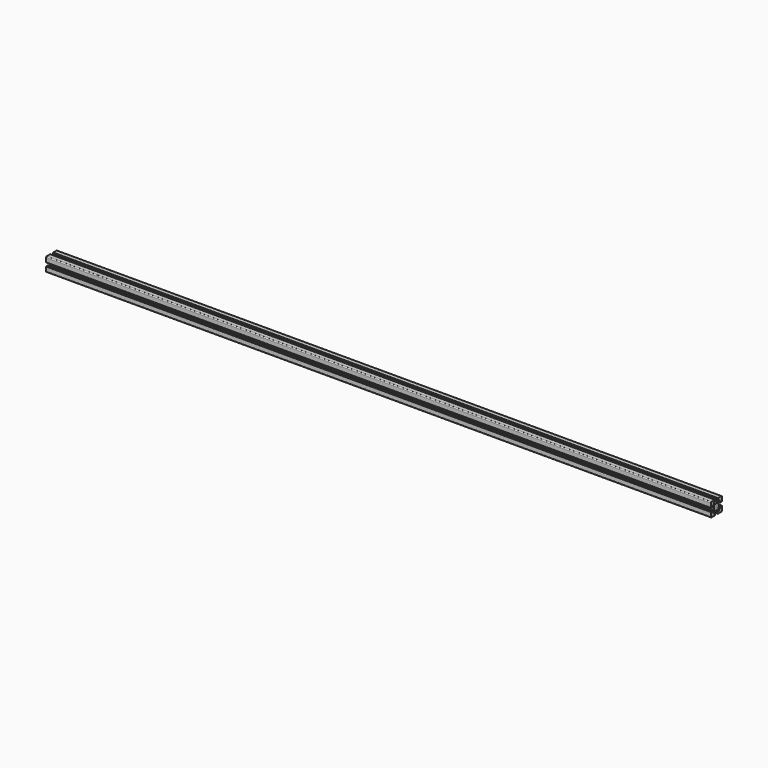
from build123d import *

# Parameters (mm, degrees)
F1_DEPTH = 2159


with BuildPart() as f1:
    # F0 (on Right) → F1 (new body)
    with BuildSketch(Plane.YZ):
        with BuildLine():
            Line((-20.088481, -9.788837), (-20.088481, -10.288837))
            Line((-20.088481, -10.288837), (-21.28859, -10.288837))
            ThreePointArc((-21.28859, -10.288837), (-21.500722, -10.376705), (-21.58859, -10.588837))
            Line((-21.58859, -10.588837), (-21.58859, -23.988949))
            ThreePointArc((-21.58859, -23.988949), (-20.70991, -26.11027), (-18.58859, -26.988949))
            Line((-18.58859, -26.988949), (-5.188544, -26.988949))
            ThreePointArc((-5.188544, -26.988949), (-4.976411, -26.901081), (-4.888544, -26.688949))
            Line((-4.888544, -26.688949), (-4.888544, -25.488841))
            Line((-4.888544, -25.488841), (-4.388544, -25.488841))
            ThreePointArc((-4.388544, -25.488841), (-4.176411, -25.400973), (-4.088544, -25.188841))
            Line((-4.088544, -25.188841), (-4.088544, -21.288841))
            ThreePointArc((-4.088544, -21.288841), (-4.176411, -21.076709), (-4.388544, -20.988841))
            Line((-4.388544, -20.988841), (-9.138663, -20.988841))
            Line((-9.138663, -20.988841), (-9.138663, -16.881665))
            Line((-9.138663, -16.881665), (-6.245729, -13.988731))
            Line((-6.245729, -13.988731), (-2.211433, -13.988731))
            ThreePointArc((-2.211433, -13.988731), (-0.669869, -14.363044), (0.91149, -14.48887))
            Line((0.91149, -14.48887), (0.91149, -4.48887))
            Line((0.91149, -4.48887), (-9.08851, -4.48887))
            ThreePointArc((-9.08851, -4.48887), (-8.962684, -6.070229), (-8.588371, -7.611793))
            Line((-8.588371, -7.611793), (-8.588371, -11.646022))
            Line((-8.588371, -11.646022), (-11.481305, -14.538956))
            Line((-11.481305, -14.538956), (-15.588481, -14.538956))
            Line((-15.588481, -14.538956), (-15.588481, -9.788837))
            ThreePointArc((-15.588481, -9.788837), (-15.676349, -9.576705), (-15.888481, -9.488837))
            Line((-15.888481, -9.488837), (-19.788481, -9.488837))
            ThreePointArc((-19.788481, -9.488837), (-20.000613, -9.576705), (-20.088481, -9.788837))
        make_face()
        with BuildLine():
            ThreePointArc((-8.588371, -1.365947), (-8.962684, -2.907511), (-9.08851, -4.48887))
            Line((-9.08851, -4.48887), (0.91149, -4.48887))
            Line((0.91149, -4.48887), (0.91149, 5.51113))
            ThreePointArc((0.91149, 5.51113), (-0.669869, 5.385303), (-2.211433, 5.010991))
            Line((-2.211433, 5.010991), (-6.245729, 5.010991))
            Line((-6.245729, 5.010991), (-9.138663, 7.903925))
            Line((-9.138663, 7.903925), (-9.138663, 12.011101))
            Line((-9.138663, 12.011101), (-4.388544, 12.011101))
            ThreePointArc((-4.388544, 12.011101), (-4.176411, 12.098969), (-4.088544, 12.311101))
            Line((-4.088544, 12.311101), (-4.088544, 16.211101))
            ThreePointArc((-4.088544, 16.211101), (-4.176411, 16.423233), (-4.388544, 16.511101))
            Line((-4.388544, 16.511101), (-4.888544, 16.511101))
            Line((-4.888544, 16.511101), (-4.888544, 17.711209))
            ThreePointArc((-4.888544, 17.711209), (-4.976411, 17.923341), (-5.188544, 18.011209))
            Line((-5.188544, 18.011209), (-18.58859, 18.011209))
            ThreePointArc((-18.58859, 18.011209), (-20.70991, 17.13253), (-21.58859, 15.011209))
            Line((-21.58859, 15.011209), (-21.58859, 1.611097))
            ThreePointArc((-21.58859, 1.611097), (-21.500722, 1.398965), (-21.28859, 1.311097))
            Line((-21.28859, 1.311097), (-20.088481, 1.311097))
            Line((-20.088481, 1.311097), (-20.088481, 0.811097))
            ThreePointArc((-20.088481, 0.811097), (-20.000613, 0.598965), (-19.788481, 0.511097))
            Line((-19.788481, 0.511097), (-15.888481, 0.511097))
            ThreePointArc((-15.888481, 0.511097), (-15.676349, 0.598965), (-15.588481, 0.811097))
            Line((-15.588481, 0.811097), (-15.588481, 5.561216))
            Line((-15.588481, 5.561216), (-11.481305, 5.561216))
            Line((-11.481305, 5.561216), (-8.588371, 2.668282))
            Line((-8.588371, 2.668282), (-8.588371, -1.365947))
        make_face()
        with BuildLine():
            Line((0.91149, 5.51113), (0.91149, -4.48887))
            Line((0.91149, -4.48887), (10.91149, -4.48887))
            ThreePointArc((10.91149, -4.48887), (10.785663, -2.907511), (10.41135, -1.365947))
            Line((10.41135, -1.365947), (10.41135, 2.668282))
            Line((10.41135, 2.668282), (13.304285, 5.561216))
            Line((13.304285, 5.561216), (14.016842, 5.561216))
            Line((14.016842, 5.561216), (17.41146, 5.561216))
            Line((17.41146, 5.561216), (17.41146, 0.811097))
            ThreePointArc((17.41146, 0.811097), (17.499328, 0.598965), (17.71146, 0.511097))
            Line((17.71146, 0.511097), (21.61146, 0.511097))
            ThreePointArc((21.61146, 0.511097), (21.823593, 0.598965), (21.91146, 0.811097))
            Line((21.91146, 0.811097), (21.91146, 1.311097))
            Line((21.91146, 1.311097), (23.111569, 1.311097))
            ThreePointArc((23.111569, 1.311097), (23.323701, 1.398965), (23.411569, 1.611097))
            Line((23.411569, 1.611097), (23.411569, 15.011209))
            ThreePointArc((23.411569, 15.011209), (22.532889, 17.13253), (20.411569, 18.011209))
            Line((20.411569, 18.011209), (7.011523, 18.011209))
            ThreePointArc((7.011523, 18.011209), (6.799391, 17.923341), (6.711523, 17.711209))
            Line((6.711523, 17.711209), (6.711523, 16.511101))
            Line((6.711523, 16.511101), (6.211523, 16.511101))
            ThreePointArc((6.211523, 16.511101), (5.999391, 16.423233), (5.911523, 16.211101))
            Line((5.911523, 16.211101), (5.911523, 12.311101))
            ThreePointArc((5.911523, 12.311101), (5.999391, 12.098969), (6.211523, 12.011101))
            Line((6.211523, 12.011101), (10.961642, 12.011101))
            Line((10.961642, 12.011101), (10.961642, 7.903925))
            Line((10.961642, 7.903925), (8.068708, 5.010991))
            Line((8.068708, 5.010991), (4.034413, 5.010991))
            ThreePointArc((4.034413, 5.010991), (2.492849, 5.385303), (0.91149, 5.51113))
        make_face()
        with BuildLine():
            Line((10.91149, -4.48887), (0.91149, -4.48887))
            Line((0.91149, -4.48887), (0.91149, -14.48887))
            ThreePointArc((0.91149, -14.48887), (2.492849, -14.363044), (4.034413, -13.988731))
            Line((4.034413, -13.988731), (8.068708, -13.988731))
            Line((8.068708, -13.988731), (10.961642, -16.881665))
            Line((10.961642, -16.881665), (10.961642, -20.988841))
            Line((10.961642, -20.988841), (6.211523, -20.988841))
            ThreePointArc((6.211523, -20.988841), (5.999391, -21.076709), (5.911523, -21.288841))
            Line((5.911523, -21.288841), (5.911523, -25.188841))
            ThreePointArc((5.911523, -25.188841), (5.999391, -25.400973), (6.211523, -25.488841))
            Line((6.211523, -25.488841), (6.711523, -25.488841))
            Line((6.711523, -25.488841), (6.711523, -26.688949))
            ThreePointArc((6.711523, -26.688949), (6.799391, -26.901081), (7.011523, -26.988949))
            Line((7.011523, -26.988949), (20.411569, -26.988949))
            ThreePointArc((20.411569, -26.988949), (22.532889, -26.11027), (23.411569, -23.988949))
            Line((23.411569, -23.988949), (23.411569, -10.588837))
            ThreePointArc((23.411569, -10.588837), (23.323701, -10.376705), (23.111569, -10.288837))
            Line((23.111569, -10.288837), (21.91146, -10.288837))
            Line((21.91146, -10.288837), (21.91146, -9.788837))
            ThreePointArc((21.91146, -9.788837), (21.823593, -9.576705), (21.61146, -9.488837))
            Line((21.61146, -9.488837), (17.71146, -9.488837))
            ThreePointArc((17.71146, -9.488837), (17.499328, -9.576705), (17.41146, -9.788837))
            Line((17.41146, -9.788837), (17.41146, -14.538956))
            Line((17.41146, -14.538956), (13.304285, -14.538956))
            Line((13.304285, -14.538956), (10.41135, -11.646022))
            Line((10.41135, -11.646022), (10.41135, -7.611793))
            ThreePointArc((10.41135, -7.611793), (10.785663, -6.070229), (10.91149, -4.48887))
        make_face()
    extrude(amount=F1_DEPTH)


solid = f1.part
